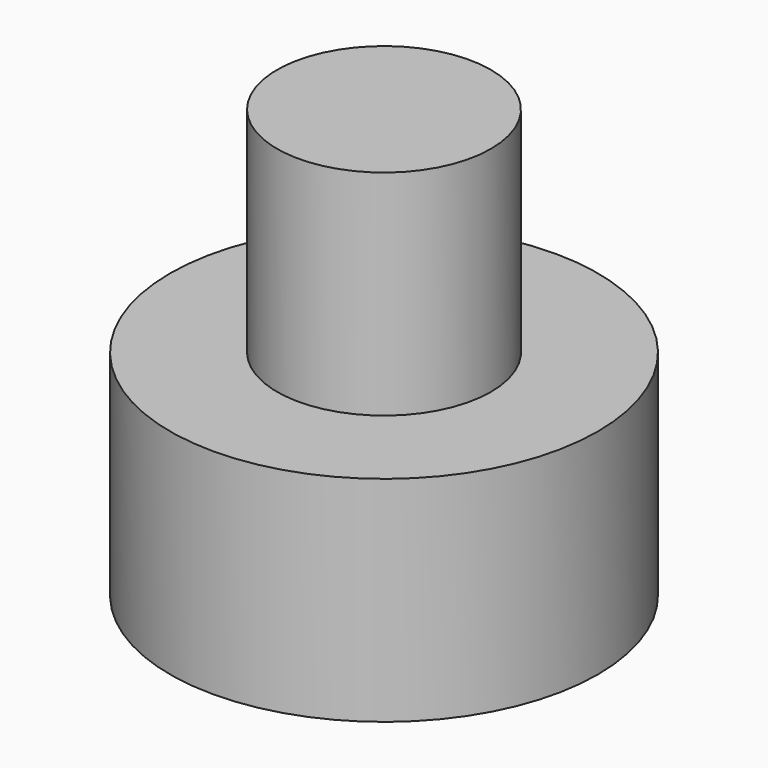
from build123d import *

# Parameters (mm, degrees)
F0_R     = 2.5
F1_DEPTH = 10
F0_R_2   = 5
F2_DEPTH = 5


with BuildPart() as f1:
    # F0 (on Top) → F1 (new body)
    with BuildSketch(Plane.XY):
        Circle(F0_R)
    extrude(amount=F1_DEPTH)


with BuildPart() as f2:
    # F0 (on Top) → F2 (new body)
    with BuildSketch(Plane.XY):
        Circle(F0_R_2)
        Circle(F0_R, mode=Mode.SUBTRACT)
    extrude(amount=F2_DEPTH)


solid = Compound([f1.part, f2.part])
